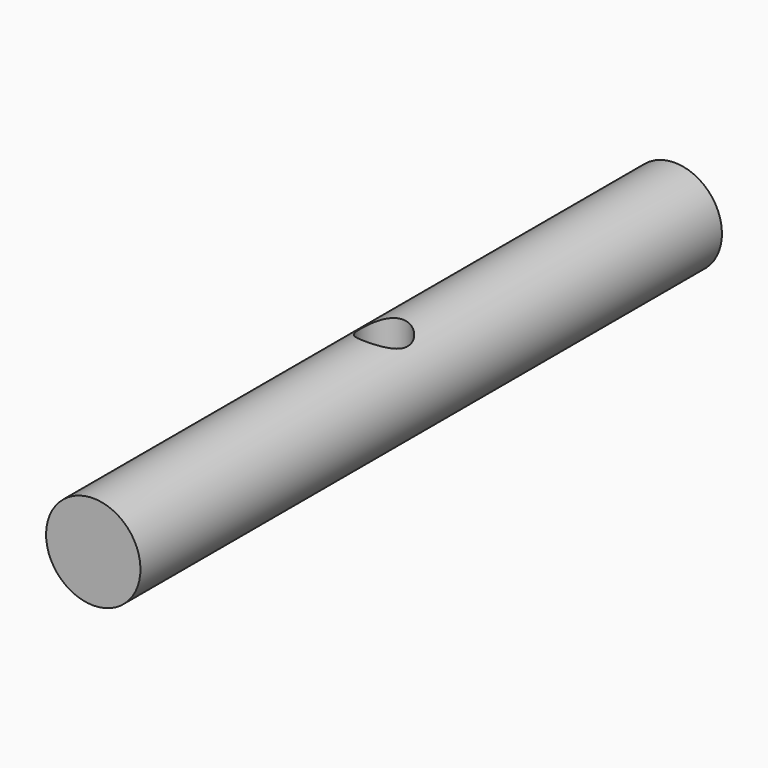
from build123d import *

# Parameters (mm, degrees)
CYLINDER004_R               = 1.35
CYLINDER004_DEPTH           = 10
CYLINDER004_PLACEMENT_ANGLE = 91
CYLINDER003_R               = 1.35
CYLINDER003_DEPTH           = 10
CYLINDER003_PITCH_ANGLE     = 90
CYLINDER002_R               = 5
CYLINDER002_DEPTH           = 20
CYLINDER002_PITCH_ANGLE     = 90
BOX_W                       = 10
BOX_H                       = 6
BOX_DEPTH                   = 22
CYLINDER001_R               = 10
CYLINDER001_DEPTH           = 154
CUT003_PITCH_ANGLE          = 90
CUT003_PLACEMENT_ANGLE      = -90


with BuildPart() as cylinder004:
    # Cylinder004 → Cylinder004 (new body)
    with BuildSketch(Plane.XY):
        Circle(CYLINDER004_R)
    extrude(amount=CYLINDER004_DEPTH)


with BuildPart() as cylinder004_1:
    # Cylinder004 placement: moved
    add(cylinder004.part.moved(Location((0, 0, 85))).rotate(Axis((0, 0, 85), (0, 1, 0)), CYLINDER004_PLACEMENT_ANGLE))


with BuildPart() as cylinder003:
    # Cylinder003 → Cylinder003 (new body)
    with BuildSketch(Plane.XY):
        Circle(CYLINDER003_R)
    extrude(amount=CYLINDER003_DEPTH)


with BuildPart() as cylinder003_1:
    # Cylinder003 pitch: moved
    add(cylinder003.part.rotate(Axis((0, 0, 0), (0, 1, 0)), CYLINDER003_PITCH_ANGLE))


with BuildPart() as cylinder003_2:
    # Cylinder003 placement: moved
    add(cylinder003_1.part.moved(Location((0, 0, 69))))


with BuildPart() as cylinder002:
    # Cylinder002 → Cylinder002 (new body)
    with BuildSketch(Plane.XY):
        Circle(CYLINDER002_R)
    extrude(amount=CYLINDER002_DEPTH)


with BuildPart() as cylinder002_1:
    # Cylinder002 pitch: moved
    add(cylinder002.part.rotate(Axis((0, 0, 0), (0, 1, 0)), CYLINDER002_PITCH_ANGLE))


with BuildPart() as cylinder002_2:
    # Cylinder002 placement: moved
    add(cylinder002_1.part.moved(Location((-10, 0, 77))))


with BuildPart() as cube:
    # Box → Box (new body)
    with BuildSketch(Plane(origin=(9.54, -3, 66), x_dir=(1, 0, 0), z_dir=(0, 0, 1))):
        with Locations((5, 3)):
            Rectangle(BOX_W, BOX_H)
    extrude(amount=BOX_DEPTH)


with BuildPart() as lever:
    # Cylinder001 → Cylinder001 (new body)
    with BuildSketch(Plane.XY):
        Circle(CYLINDER001_R)
    extrude(amount=CYLINDER001_DEPTH)

    # Cut: cut Cube
    add(cube.part, mode=Mode.SUBTRACT)

    # Cut001: cut Cylinder002
    add(cylinder002_2.part, mode=Mode.SUBTRACT)

    # Cut002: cut Cylinder003
    add(cylinder003_2.part, mode=Mode.SUBTRACT)

    # Cut003: cut Cylinder004
    add(cylinder004_1.part, mode=Mode.SUBTRACT)


with BuildPart() as lever_1:
    # Cut003 pitch: moved
    add(lever.part.rotate(Axis((0, 0, 0), (0, 1, 0)), CUT003_PITCH_ANGLE))


with BuildPart() as lever_2:
    # Cut003 placement: moved
    add(lever_1.part.moved(Location((106, 77, 0))).rotate(Axis((106, 77, 0), (0, 0, 1)), CUT003_PLACEMENT_ANGLE))


solid = lever_2.part
